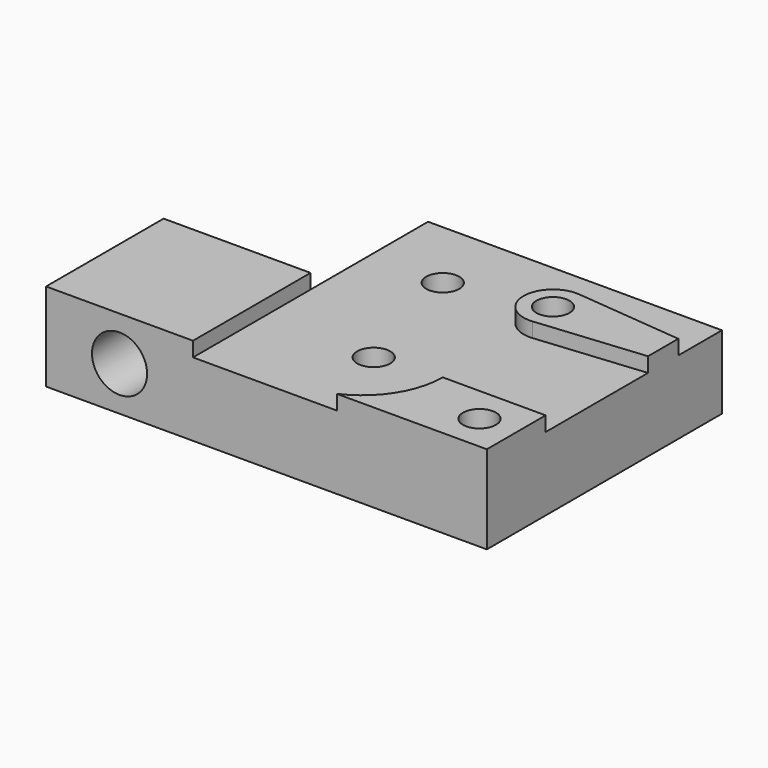
from build123d import *

# Parameters (mm, degrees)
SKETCH_R                       = 2.25
PAD_DEPTH                      = 12
POCKET_DEPTH                   = 2
SKETCH002_R                    = 2.25
POCKET002_DEPTH                = 20.001
PART_MIRRORING_PLACEMENT_ANGLE = 180
SKETCH003_R                    = 3.75
POCKET003_DEPTH                = 5
SKETCH004_R                    = 3.75
POCKET004_DEPTH                = 10
SKETCH005_R                    = 3
POCKET005_DEPTH                = 8


with BuildPart() as pocket002:
    # Sketch → Pad (new body)
    with BuildSketch(Plane.XY):
        Polygon((0, -20), (40, -20), (40, 20), (-20, 20), (-20, 0), (0, 0), align=None)
        with Locations((15, 8)):
            Circle(SKETCH_R, mode=Mode.SUBTRACT)
        with Locations((10, -10)):
            Circle(SKETCH_R, mode=Mode.SUBTRACT)
        with Locations((35, 15)):
            Circle(SKETCH_R, mode=Mode.SUBTRACT)
        with Locations((25, -10)):
            Circle(SKETCH_R, mode=Mode.SUBTRACT)
    extrude(amount=PAD_DEPTH)

    # Sketch001 → Pocket (cut)
    with BuildSketch(Plane.XY.offset(12)):
        with BuildLine():
            Line((46, 10), (26, 10))
            ThreePointArc((26, 10), (22.778175, 17.778175), (15, 21))
            Line((15, 21), (0, 21))
            Line((0, 21), (0, -23))
            Line((0, -23), (46, -23))
            Line((46, -23), (46, -12))
            Line((25.382674, -13.981653), (46, -12))
            ThreePointArc((25.382674, -6.018347), (21, -10), (25.382674, -13.981653))
            Line((25.382674, -6.018347), (46, -8))
            Line((46, -8), (46, 10))
        make_face()
    extrude(amount=-POCKET_DEPTH, mode=Mode.SUBTRACT)

    # Sketch002 → Pocket002 (cut, through all)
    with BuildSketch(Plane.XZ):
        with Locations((-10, 6)):
            Circle(SKETCH002_R)
    extrude(amount=-POCKET002_DEPTH, mode=Mode.SUBTRACT)


with BuildPart() as pocket005:
    # Part__Mirroring: instance of Pocket002
    add(pocket002.part.mirror(Plane(origin=(0, 0, 0), x_dir=(0, 1, 0), z_dir=(0, 0, 1))))


with BuildPart() as pocket005_1:
    # Part__Mirroring placement: moved
    add(pocket005.part.rotate(Axis((0, 0, 0), (1, 0, 0)), PART_MIRRORING_PLACEMENT_ANGLE))

    # Sketch003 → Pocket003 (cut)
    with BuildSketch(Plane(origin=(0, 0, 0), x_dir=(1, 0, 0), z_dir=(0, 0, -1))):
        with Locations((10, -10)):
            Circle(SKETCH003_R)
        with Locations((25, -10)):
            Circle(SKETCH003_R)
    extrude(amount=-POCKET003_DEPTH, mode=Mode.SUBTRACT)

    # Sketch004 → Pocket004 (cut)
    with BuildSketch(Plane(origin=(0, -20, 0), x_dir=(-1, 0, 0), z_dir=(0, -1, 0))):
        with Locations((10, -6)):
            Circle(SKETCH004_R)
    extrude(amount=-POCKET004_DEPTH, mode=Mode.SUBTRACT)

    # Sketch005 → Pocket005 (cut)
    with BuildSketch(Plane(origin=(0, 0, 0), x_dir=(1, 0, 0), z_dir=(0, 0, -1))):
        with Locations((35, 15)):
            Circle(SKETCH005_R)
    extrude(amount=-POCKET005_DEPTH, mode=Mode.SUBTRACT)


solid = pocket005_1.part
